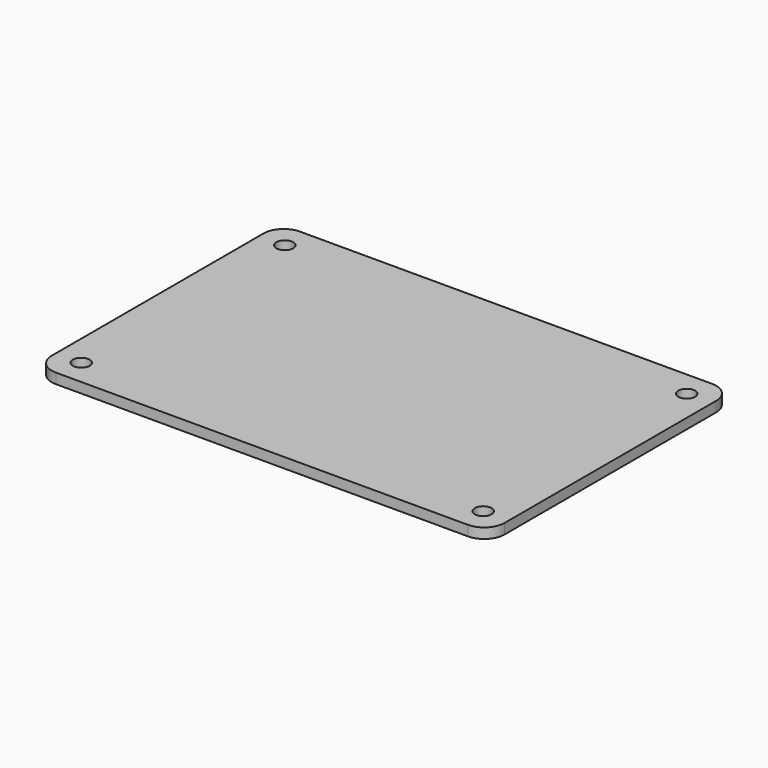
from build123d import *

# Parameters (mm, degrees)
F0_W     = 85
F0_H     = 56
F0_R     = 1.65
F1_DEPTH = 2
F2_R     = 2
F4_DEPTH = 2


with BuildPart() as f1:
    # F0 (on Top) → F1 (new body)
    with BuildSketch(Plane.XY):
        Rectangle(F0_W, F0_H)
        with Locations((-39.5, -25)):
            Circle(F0_R, mode=Mode.SUBTRACT)
        with Locations((39.5, -25)):
            Circle(F0_R, mode=Mode.SUBTRACT)
        with Locations((-39.5, 25)):
            Circle(F0_R, mode=Mode.SUBTRACT)
        with Locations((39.5, 25)):
            Circle(F0_R, mode=Mode.SUBTRACT)
    extrude(amount=F1_DEPTH)

    # F2
    f2_edges = [f1.edges().sort_by_distance(p)[0] for p in [
        (-42.5, -28, 1),
        (-42.5, 28, 1),
        (42.5, -28, 1),
        (42.5, 28, 1),
    ]]
    fillet(f2_edges, radius=F2_R)

    # F3 (on face) → F4 (join, through all)
    with BuildSketch(Plane.XY.offset(2)):
        with BuildLine():
            Line((44.5, -26), (44.5, 26))
            ThreePointArc((44.5, 26), (43.328427, 28.828427), (40.5, 30))
            Line((40.5, 30), (-40.5, 30))
            ThreePointArc((-40.5, 30), (-43.328427, 28.828427), (-44.5, 26))
            Line((-44.5, 26), (-44.5, -26))
            ThreePointArc((-44.5, -26), (-43.328427, -28.828427), (-40.5, -30))
            Line((-40.5, -30), (40.5, -30))
            ThreePointArc((40.5, -30), (43.328427, -28.828427), (44.5, -26))
        make_face()
        with BuildLine():
            Line((40.5, -28), (-40.5, -28))
            ThreePointArc((-40.5, -28), (-41.914214, -27.414214), (-42.5, -26))
            Line((-42.5, -26), (-42.5, 26))
            ThreePointArc((-42.5, 26), (-41.914214, 27.414214), (-40.5, 28))
            Line((-40.5, 28), (40.5, 28))
            ThreePointArc((40.5, 28), (41.914214, 27.414214), (42.5, 26))
            Line((42.5, 26), (42.5, -26))
            ThreePointArc((42.5, -26), (41.914214, -27.414214), (40.5, -28))
        make_face(mode=Mode.SUBTRACT)
    extrude(amount=-F4_DEPTH)


solid = f1.part
